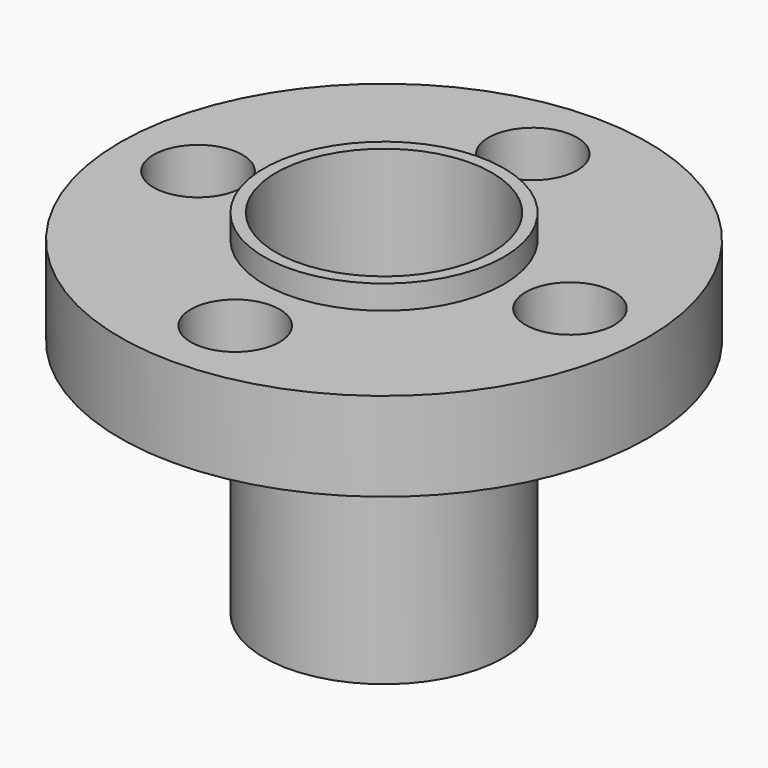
from build123d import *

# Parameters (mm, degrees)
F0_R     = 11
F1_DEPTH = 3.7
F2_R     = 5
F3_DEPTH = 1
F4_R     = 5
F5_DEPTH = 10
F6_R     = 4.5
F7_DEPTH = 14.701
F8_R     = 1.85
F9_DEPTH = 13.701


with BuildPart() as f1:
    # F0 (on Top) → F1 (new body)
    with BuildSketch(Plane.XY):
        Circle(F0_R)
    extrude(amount=F1_DEPTH)

    # F2 (on face) → F3 (join)
    with BuildSketch(Plane.XY.offset(3.7)):
        Circle(F2_R)
    extrude(amount=F3_DEPTH)

    # F4 (on face) → F5 (join)
    with BuildSketch(Plane(origin=(0, 0, 0), x_dir=(1, 0, 0), z_dir=(0, 0, -1))):
        Circle(F4_R)
    extrude(amount=F5_DEPTH)

    # F6 (on face) → F7 (cut, through all)
    with BuildSketch(Plane.XY.offset(4.7)):
        Circle(F6_R)
    extrude(amount=-F7_DEPTH, mode=Mode.SUBTRACT)

    # F8 (on face) → F9 (cut, through all)
    with BuildSketch(Plane.XY.offset(3.7)):
        with Locations((0, 7.75)):
            Circle(F8_R)
        with Locations((-7.75, 0)):
            Circle(F8_R)
        with Locations((0, -7.75)):
            Circle(F8_R)
        with Locations((7.75, 0)):
            Circle(F8_R)
    extrude(amount=-F9_DEPTH, mode=Mode.SUBTRACT)


solid = f1.part
